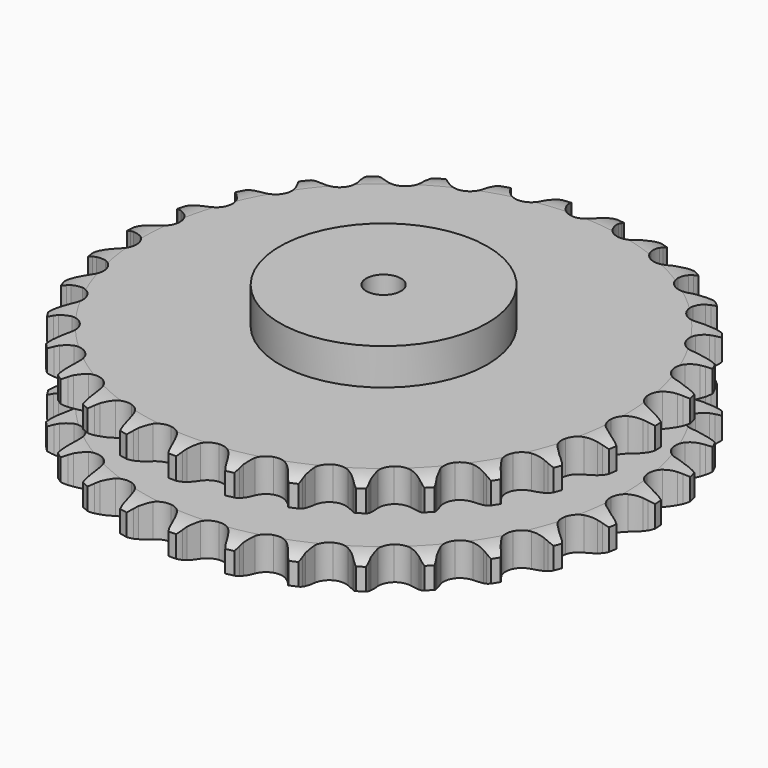
from build123d import *

# Parameters (mm, degrees)
PAD_DEPTH         = 88.4
SKETCH001_R       = 90
PAD001_DEPTH      = 120
SKETCH002_R       = 15
POCKET_DEPTH      = 0.001
POCKET_DEPTH_BACK = 120.001


with BuildPart() as part:
    # Sprocket → Pad (new body)
    with BuildSketch(Plane.XY):
        with BuildLine():
            ThreePointArc((-23.664794, 232.714912), (-20.081342, 228.628802), (-17.565251, 223.811467))
            Line((-17.565251, 223.811467), (-16.202509, 220.213041))
            ThreePointArc((-16.202509, 220.213041), (-14.045708, 215.543225), (-11.252684, 211.223734))
            ThreePointArc((-11.252684, 211.223734), (-6.288643, 207.088088), (0, 205.605441))
            ThreePointArc((0, 205.605441), (6.288643, 207.088088), (11.252684, 211.223734))
            ThreePointArc((11.252684, 211.223734), (14.045708, 215.543225), (16.202509, 220.213041))
            Line((16.202509, 220.213041), (17.565251, 223.811467))
            ThreePointArc((17.565251, 223.811467), (20.081342, 228.628802), (23.664794, 232.714912))
            ThreePointArc((23.664794, 232.714912), (26.352364, 227.991101), (27.847228, 222.765893))
            Line((27.847228, 222.765893), (28.457717, 218.966808))
            ThreePointArc((28.457717, 218.966808), (29.630341, 213.958422), (31.496685, 209.165121))
            ThreePointArc((31.496685, 209.165121), (35.526612, 204.114877), (41.388071, 201.396685))
            ThreePointArc((41.388071, 201.396685), (47.84644, 201.583088), (53.541366, 204.634823))
            Line((53.541366, 204.634823), (60.199402, 212.443726))
            ThreePointArc((60.199402, 212.443726), (61.186059, 214.096157), (62.258607, 215.694174))
            ThreePointArc((62.258607, 215.694174), (65.692915, 219.906412), (70.025541, 223.187536))
            ThreePointArc((70.025541, 223.187536), (71.707201, 218.019418), (72.119638, 212.600256))
            Line((72.119638, 212.600256), (71.95288, 208.756049))
            ThreePointArc((71.95288, 208.756049), (72.09332, 203.614137), (72.956575, 198.543262))
            ThreePointArc((72.956575, 198.543262), (75.887403, 192.785179), (81.081709, 188.942726))
            ThreePointArc((81.081709, 188.942726), (87.445397, 187.825253), (93.638058, 189.668139))
            Line((93.638058, 189.668139), (101.731724, 195.97694))
            ThreePointArc((101.731724, 195.97694), (103.030816, 197.396933), (104.403088, 198.746337))
            ThreePointArc((104.403088, 198.746337), (108.615013, 202.181029), (113.519435, 204.522836))
            ThreePointArc((113.519435, 204.522836), (114.126336, 199.121994), (113.439461, 193.73074))
            Line((113.439461, 193.73074), (112.502284, 189.998792))
            ThreePointArc((112.502284, 189.998792), (111.60479, 184.933865), (111.429614, 179.793019))
            ThreePointArc((111.429614, 179.793019), (113.141354, 173.562833), (117.455853, 168.753429))
            ThreePointArc((117.455853, 168.753429), (123.46433, 166.37783), (129.901197, 166.936418))
            Line((129.901197, 166.936418), (139.099138, 171.486835))
            ThreePointArc((139.099138, 171.486835), (140.65748, 172.616255), (142.273294, 173.6618))
            ThreePointArc((142.273294, 173.6618), (147.090399, 176.17833), (152.36583, 177.484948))
            ThreePointArc((152.36583, 177.484948), (151.873126, 172.072493), (150.11506, 166.929865))
            Line((150.11506, 166.929865), (148.445831, 163.462962))
            ThreePointArc((148.445831, 163.462962), (146.547147, 158.682379), (145.340712, 153.682029))
            ThreePointArc((145.340712, 153.682029), (145.763286, 147.234805), (149.02134, 141.655347))
            ThreePointArc((149.02134, 141.655347), (154.428619, 138.118879), (160.846166, 137.370301))
            Line((160.846166, 137.370301), (170.771816, 139.976039))
            ThreePointArc((170.771816, 139.976039), (172.52561, 140.768647), (174.318814, 141.46753))
            ThreePointArc((174.318814, 141.46753), (179.543887, 142.96287), (184.97435, 143.180804))
            ThreePointArc((184.97435, 143.180804), (183.402213, 137.978323), (180.644931, 133.294861))
            Line((180.644931, 133.294861), (178.311989, 130.234939))
            ThreePointArc((178.311989, 130.234939), (175.489846, 125.934417), (173.301544, 121.279279))
            ThreePointArc((173.301544, 121.279279), (172.417651, 114.878966), (174.485877, 108.757878))
            ThreePointArc((174.485877, 108.757878), (179.070582, 104.205325), (185.206074, 102.180228))
            Line((185.206074, 102.180228), (195.453077, 102.734607))
            ThreePointArc((195.453077, 102.734607), (197.330521, 103.157955), (199.227702, 103.481562))
            ThreePointArc((199.227702, 103.481562), (204.646827, 103.894493), (210.009998, 103.014822))
            ThreePointArc((210.009998, 103.014822), (207.422791, 98.235305), (203.779177, 94.20275))
            Line((203.779177, 94.20275), (200.878032, 91.675083))
            ThreePointArc((200.878032, 91.675083), (197.24797, 88.030686), (194.167391, 83.91134))
            ThreePointArc((194.167391, 83.91134), (192.013217, 77.819969), (192.80694, 71.40785))
            ThreePointArc((192.80694, 71.40785), (196.381375, 66.025593), (201.983623, 62.806884))
            Line((201.983623, 62.806884), (212.132465, 61.287209))
            ThreePointArc((212.132465, 61.287209), (214.056697, 61.323964), (215.980185, 61.259046))
            ThreePointArc((215.980185, 61.259046), (221.371502, 60.572663), (226.447812, 58.631401))
            ThreePointArc((226.447812, 58.631401), (222.951456, 54.470522), (218.570679, 51.253968))
            Line((218.570679, 51.253968), (215.220106, 49.362038))
            ThreePointArc((215.220106, 49.362038), (210.93074, 46.522968), (207.084002, 43.108062))
            ThreePointArc((207.084002, 43.108062), (203.74774, 37.575013), (203.234465, 31.134375))
            ThreePointArc((203.234465, 31.134375), (205.652291, 25.142765), (210.491939, 20.862219))
            Line((210.491939, 20.862219), (220.127126, 17.330705))
            ThreePointArc((220.127126, 17.330705), (222.019367, 16.979362), (223.890413, 16.528579))
            ThreePointArc((223.890413, 16.528579), (229.033202, 14.770981), (233.614826, 11.847603))
            ThreePointArc((233.614826, 11.847603), (229.352462, 8.475709), (224.413872, 6.206842))
            Line((224.413872, 6.206842), (220.751043, 5.028105))
            ThreePointArc((220.751043, 5.028105), (215.97798, 3.110595), (211.522569, 0.539934))
            ThreePointArc((211.522569, 0.539934), (207.140806, -4.208268), (205.341548, -10.413745))
            ThreePointArc((205.341548, -10.413745), (206.503777, -16.769411), (210.382691, -21.936547))
            Line((210.382691, -21.936547), (219.109756, -27.33532))
            ThreePointArc((219.109756, -27.33532), (220.892538, -28.060376), (222.634542, -28.878571))
            ThreePointArc((222.634542, -28.878571), (227.318255, -31.635426), (231.217622, -35.421237))
            ThreePointArc((231.217622, -35.421237), (226.363751, -37.866101), (221.069535, -39.094393))
            Line((221.069535, -39.094393), (217.244406, -39.511678))
            ThreePointArc((217.244406, -39.511678), (212.183056, -40.429127), (207.301378, -42.050298))
            ThreePointArc((207.301378, -42.050298), (202.053504, -45.819262), (199.041923, -51.535524))
            ThreePointArc((199.041923, -51.535524), (198.900975, -57.995045), (201.66035, -63.837229))
            Line((201.66035, -63.837229), (209.122007, -70.882234))
            ThreePointArc((209.122007, -70.882234), (210.722343, -71.95132), (212.263986, -73.103429))
            ThreePointArc((212.263986, -73.103429), (216.296873, -76.746676), (219.354341, -81.239927))
            ThreePointArc((219.354341, -81.239927), (214.107682, -82.657667), (208.674585, -82.795099))
            Line((208.674585, -82.795099), (204.843758, -82.43385))
            ThreePointArc((204.843758, -82.43385), (199.701333, -82.313675), (194.593244, -82.918987))
            ThreePointArc((194.593244, -82.918987), (188.694107, -85.554411), (184.593498, -90.547434))
            ThreePointArc((184.593498, -90.547434), (183.155144, -96.846355), (184.682011, -103.124408))
            Line((184.682011, -103.124408), (190.572778, -111.527221))
            ThreePointArc((190.572778, -111.527221), (191.92515, -112.896568), (193.203317, -114.335424))
            ThreePointArc((193.203317, -114.335424), (196.420271, -118.715907), (198.510668, -123.732645))
            ThreePointArc((198.510668, -123.732645), (193.086019, -124.06522), (187.736473, -123.106164))
            Line((187.736473, -123.106164), (184.056782, -121.981169))
            ThreePointArc((184.056782, -121.981169), (179.043814, -120.828292), (173.918439, -120.392962))
            ThreePointArc((173.918439, -120.392962), (167.609551, -121.786951), (162.587794, -125.85232))
            ThreePointArc((162.587794, -125.85232), (159.91092, -131.732764), (160.142769, -138.189661))
            Line((160.142769, -138.189661), (164.221477, -147.606271))
            ThreePointArc((164.221477, -147.606271), (165.270519, -149.219817), (166.232883, -150.886513))
            ThreePointArc((166.232883, -150.886513), (168.5022, -155.824895), (169.539944, -161.159734))
            ThreePointArc((169.539944, -161.159734), (164.159391, -160.393527), (159.112408, -158.377247))
            Line((159.112408, -158.377247), (155.7345, -156.534565))
            ThreePointArc((155.7345, -156.534565), (151.05622, -154.396185), (146.123393, -152.938036))
            ThreePointArc((146.123393, -152.938036), (139.663041, -153.03352), (133.925726, -156.004798))
            ThreePointArc((133.925726, -156.004798), (130.119923, -161.226018), (129.047263, -167.597413))
            Line((129.047263, -167.597413), (131.14693, -177.642302))
            ThreePointArc((131.14693, -177.642302), (131.849693, -179.433989), (132.456854, -181.26029))
            ThreePointArc((132.456854, -181.26029), (133.685629, -186.554394), (133.628236, -191.988925))
            ThreePointArc((133.628236, -191.988925), (128.512059, -190.155305), (123.974262, -187.164348))
            Line((123.974262, -187.164348), (121.03643, -184.679418))
            ThreePointArc((121.03643, -184.679418), (116.884367, -181.64308), (112.346039, -179.221808))
            ThreePointArc((112.346039, -179.221808), (105.998709, -178.014878), (99.780724, -179.770421))
            ThreePointArc((99.780724, -179.770421), (95.001802, -184.11866), (92.668547, -190.143707))
            Line((92.668547, -190.143707), (92.703212, -200.405637))
            ThreePointArc((92.703212, -200.405637), (93.030926, -202.302113), (93.258026, -204.21325))
            ThreePointArc((93.258026, -204.21325), (93.395953, -209.646334), (92.245771, -214.958067))
            ThreePointArc((92.245771, -214.958067), (87.603429, -212.132102), (83.760596, -208.288919))
            Line((83.760596, -208.288919), (81.383113, -205.263474))
            ThreePointArc((81.383113, -205.263474), (77.927254, -201.453485), (73.969224, -198.168218))
            ThreePointArc((73.969224, -198.168218), (67.994778, -195.708287), (61.550687, -196.176222))
            ThreePointArc((61.550687, -196.176222), (55.994296, -199.473462), (52.49597, -204.905495))
            Line((52.49597, -204.905495), (50.464214, -214.964341))
            ThreePointArc((50.464214, -214.964341), (50.403461, -216.887965), (50.241204, -218.805696))
            ThreePointArc((50.241204, -218.805696), (49.282636, -224.155328), (47.086754, -229.1268))
            ThreePointArc((47.086754, -229.1268), (43.108303, -225.424186), (40.11776, -220.886116))
            Line((40.11776, -220.886116), (38.397963, -217.444019))
            ThreePointArc((38.397963, -217.444019), (35.77979, -213.016361), (32.564101, -209.001598))
            ThreePointArc((32.564101, -209.001598), (27.207132, -205.389375), (20.800757, -204.550546))
            ThreePointArc((20.800757, -204.550546), (14.694377, -206.661797), (10.174201, -211.278429))
            Line((10.174201, -211.278429), (6.159205, -220.72238))
            ThreePointArc((6.159205, -220.72238), (5.712473, -222.594397), (5.167501, -224.44021))
            ThreePointArc((5.167501, -224.44021), (3.151681, -229.487377), (0, -233.915055))
            ThreePointArc((0, -233.915055), (-3.151681, -229.487377), (-5.167501, -224.44021))
            Line((-5.167501, -224.44021), (-6.159205, -220.72238))
            ThreePointArc((-6.159205, -220.72238), (-7.832503, -215.858323), (-10.174201, -211.278429))
            ThreePointArc((-10.174201, -211.278429), (-14.694377, -206.661797), (-20.800757, -204.550546))
            ThreePointArc((-20.800757, -204.550546), (-27.207132, -205.389375), (-32.564101, -209.001598))
            Line((-32.564101, -209.001598), (-38.397963, -217.444019))
            ThreePointArc((-38.397963, -217.444019), (-39.212384, -219.187789), (-40.11776, -220.886116))
            ThreePointArc((-40.11776, -220.886116), (-43.108303, -225.424186), (-47.086754, -229.1268))
            ThreePointArc((-47.086754, -229.1268), (-49.282636, -224.155328), (-50.241204, -218.805696))
            Line((-50.241204, -218.805696), (-50.464214, -214.964341))
            ThreePointArc((-50.464214, -214.964341), (-51.124132, -209.863019), (-52.49597, -204.905495))
            ThreePointArc((-52.49597, -204.905495), (-55.994296, -199.473462), (-61.550687, -196.176222))
            ThreePointArc((-61.550687, -196.176222), (-67.994778, -195.708287), (-73.969224, -198.168218))
            Line((-73.969224, -198.168218), (-81.383113, -205.263474))
            ThreePointArc((-81.383113, -205.263474), (-82.531882, -206.807608), (-83.760596, -208.288919))
            ThreePointArc((-83.760596, -208.288919), (-87.603429, -212.132102), (-92.245771, -214.958067))
            ThreePointArc((-92.245771, -214.958067), (-93.395953, -209.646334), (-93.258026, -204.21325))
            Line((-93.258026, -204.21325), (-92.703212, -200.405637))
            ThreePointArc((-92.703212, -200.405637), (-92.322733, -195.275898), (-92.668547, -190.143707))
            ThreePointArc((-92.668547, -190.143707), (-95.001802, -184.11866), (-99.780724, -179.770421))
            ThreePointArc((-99.780724, -179.770421), (-105.998709, -178.014878), (-112.346039, -179.221808))
            Line((-112.346039, -179.221808), (-121.03643, -184.679418))
            ThreePointArc((-121.03643, -184.679418), (-122.472515, -185.960698), (-123.974262, -187.164348))
            ThreePointArc((-123.974262, -187.164348), (-128.512059, -190.155305), (-133.628236, -191.988925))
            ThreePointArc((-133.628236, -191.988925), (-133.685629, -186.554394), (-132.456854, -181.26029))
            Line((-132.456854, -181.26029), (-131.14693, -177.642302))
            ThreePointArc((-131.14693, -177.642302), (-129.741631, -172.69416), (-129.047263, -167.597413))
            ThreePointArc((-129.047263, -167.597413), (-130.119923, -161.226018), (-133.925726, -156.004798))
            ThreePointArc((-133.925726, -156.004798), (-139.663041, -153.03352), (-146.123393, -152.938036))
            Line((-146.123393, -152.938036), (-155.7345, -156.534565))
            ThreePointArc((-155.7345, -156.534565), (-157.399109, -157.500535), (-159.112408, -158.377247))
            ThreePointArc((-159.112408, -158.377247), (-164.159391, -160.393527), (-169.539944, -161.159734))
            ThreePointArc((-169.539944, -161.159734), (-168.5022, -155.824895), (-166.232883, -150.886513))
            Line((-166.232883, -150.886513), (-164.221477, -147.606271))
            ThreePointArc((-164.221477, -147.606271), (-161.848891, -143.042302), (-160.142769, -138.189661))
            ThreePointArc((-160.142769, -138.189661), (-159.91092, -131.732764), (-162.587794, -125.85232))
            ThreePointArc((-162.587794, -125.85232), (-167.609551, -121.786951), (-173.918439, -120.392962))
            Line((-173.918439, -120.392962), (-184.056782, -121.981169))
            ThreePointArc((-184.056782, -121.981169), (-185.881764, -122.592283), (-187.736473, -123.106164))
            ThreePointArc((-187.736473, -123.106164), (-193.086019, -124.06522), (-198.510668, -123.732645))
            ThreePointArc((-198.510668, -123.732645), (-196.420271, -118.715907), (-193.203317, -114.335424))
            Line((-193.203317, -114.335424), (-190.572778, -111.527221))
            ThreePointArc((-190.572778, -111.527221), (-187.330038, -107.534275), (-184.682011, -103.124408))
            ThreePointArc((-184.682011, -103.124408), (-183.155144, -96.846355), (-184.593498, -90.547434))
            ThreePointArc((-184.593498, -90.547434), (-188.694107, -85.554411), (-194.593244, -82.918987))
            Line((-194.593244, -82.918987), (-204.843758, -82.43385))
            ThreePointArc((-204.843758, -82.43385), (-206.754399, -82.665087), (-208.674585, -82.795099))
            ThreePointArc((-208.674585, -82.795099), (-214.107682, -82.657667), (-219.354341, -81.239927))
            ThreePointArc((-219.354341, -81.239927), (-216.296873, -76.746676), (-212.263986, -73.103429))
            Line((-212.263986, -73.103429), (-209.122007, -70.882234))
            ThreePointArc((-209.122007, -70.882234), (-205.141872, -67.623783), (-201.66035, -63.837229))
            ThreePointArc((-201.66035, -63.837229), (-198.900975, -57.995045), (-199.041923, -51.535524))
            ThreePointArc((-199.041923, -51.535524), (-202.053504, -45.819262), (-207.301378, -42.050298))
            Line((-207.301378, -42.050298), (-217.244406, -39.511678))
            ThreePointArc((-217.244406, -39.511678), (-219.162484, -39.353574), (-221.069535, -39.094393))
            ThreePointArc((-221.069535, -39.094393), (-226.363751, -37.866101), (-231.217622, -35.421237))
            ThreePointArc((-231.217622, -35.421237), (-227.318255, -31.635426), (-222.634542, -28.878571))
            Line((-222.634542, -28.878571), (-219.109756, -27.33532))
            ThreePointArc((-219.109756, -27.33532), (-214.555173, -24.944765), (-210.382691, -21.936547))
            ThreePointArc((-210.382691, -21.936547), (-206.503777, -16.769411), (-205.341548, -10.413745))
            ThreePointArc((-205.341548, -10.413745), (-207.140806, -4.208268), (-211.522569, 0.539934))
            Line((-211.522569, 0.539934), (-220.751043, 5.028105))
            ThreePointArc((-220.751043, 5.028105), (-222.598031, 5.56908), (-224.413872, 6.206842))
            ThreePointArc((-224.413872, 6.206842), (-229.352462, 8.475709), (-233.614826, 11.847603))
            ThreePointArc((-233.614826, 11.847603), (-229.033202, 14.770981), (-223.890413, 16.528579))
            Line((-223.890413, 16.528579), (-220.127126, 17.330705))
            ThreePointArc((-220.127126, 17.330705), (-215.18456, 18.755494), (-210.491939, 20.862219))
            ThreePointArc((-210.491939, 20.862219), (-205.652291, 25.142765), (-203.234465, 31.134375))
            ThreePointArc((-203.234465, 31.134375), (-203.74774, 37.575013), (-207.084002, 43.108062))
            Line((-207.084002, 43.108062), (-215.220106, 49.362038))
            ThreePointArc((-215.220106, 49.362038), (-216.920389, 50.263735), (-218.570679, 51.253968))
            ThreePointArc((-218.570679, 51.253968), (-222.951456, 54.470522), (-226.447812, 58.631401))
            ThreePointArc((-226.447812, 58.631401), (-221.371502, 60.572663), (-215.980185, 61.259046))
            Line((-215.980185, 61.259046), (-212.132465, 61.287209))
            ThreePointArc((-212.132465, 61.287209), (-207.004266, 61.687902), (-201.983623, 62.806884))
            ThreePointArc((-201.983623, 62.806884), (-196.381375, 66.025593), (-192.80694, 71.40785))
            ThreePointArc((-192.80694, 71.40785), (-192.013217, 77.819969), (-194.167391, 83.91134))
            Line((-194.167391, 83.91134), (-200.878032, 91.675083))
            ThreePointArc((-200.878032, 91.675083), (-202.362, 92.900587), (-203.779177, 94.20275))
            ThreePointArc((-203.779177, 94.20275), (-207.422791, 98.235305), (-210.009998, 103.014822))
            ThreePointArc((-210.009998, 103.014822), (-204.646827, 103.894493), (-199.227702, 103.481562))
            Line((-199.227702, 103.481562), (-195.453077, 102.734607))
            ThreePointArc((-195.453077, 102.734607), (-190.349194, 102.094799), (-185.206074, 102.180228))
            ThreePointArc((-185.206074, 102.180228), (-179.070582, 104.205325), (-174.485877, 108.757878))
            ThreePointArc((-174.485877, 108.757878), (-172.417651, 114.878966), (-173.301544, 121.279279))
            Line((-173.301544, 121.279279), (-178.311989, 130.234939))
            ThreePointArc((-178.311989, 130.234939), (-179.518888, 131.734077), (-180.644931, 133.294861))
            ThreePointArc((-180.644931, 133.294861), (-183.402213, 137.978323), (-184.97435, 143.180804))
            ThreePointArc((-184.97435, 143.180804), (-179.543887, 142.96287), (-174.318814, 141.46753))
            Line((-174.318814, 141.46753), (-170.771816, 139.976039))
            ThreePointArc((-170.771816, 139.976039), (-165.901202, 138.321924), (-160.846166, 137.370301))
            ThreePointArc((-160.846166, 137.370301), (-154.428619, 138.118879), (-149.02134, 141.655347))
            ThreePointArc((-149.02134, 141.655347), (-145.763286, 147.234805), (-145.340712, 153.682029))
            Line((-145.340712, 153.682029), (-148.445831, 163.462962))
            ThreePointArc((-148.445831, 163.462962), (-149.326251, 165.174359), (-150.11506, 166.929865))
            ThreePointArc((-150.11506, 166.929865), (-151.873126, 172.072493), (-152.36583, 177.484948))
            ThreePointArc((-152.36583, 177.484948), (-147.090399, 176.17833), (-142.273294, 173.6618))
            Line((-142.273294, 173.6618), (-139.099138, 171.486835))
            ThreePointArc((-139.099138, 171.486835), (-134.661196, 168.886132), (-129.901197, 166.936418))
            ThreePointArc((-129.901197, 166.936418), (-123.46433, 166.37783), (-117.455853, 168.753429))
            ThreePointArc((-117.455853, 168.753429), (-113.141354, 173.562833), (-111.429614, 179.793019))
            Line((-111.429614, 179.793019), (-112.502284, 189.998792))
            ThreePointArc((-112.502284, 189.998792), (-113.020179, 191.852384), (-113.439461, 193.73074))
            ThreePointArc((-113.439461, 193.73074), (-114.126336, 199.121994), (-113.519435, 204.522836))
            ThreePointArc((-113.519435, 204.522836), (-108.615013, 202.181029), (-104.403088, 198.746337))
            Line((-104.403088, 198.746337), (-101.731724, 195.97694))
            ThreePointArc((-101.731724, 195.97694), (-97.908145, 192.536123), (-93.638058, 189.668139))
            ThreePointArc((-93.638058, 189.668139), (-87.445397, 187.825253), (-81.081709, 188.942726))
            ThreePointArc((-81.081709, 188.942726), (-75.887403, 192.785179), (-72.956575, 198.543262))
            Line((-72.956575, 198.543262), (-71.95288, 208.756049))
            ThreePointArc((-71.95288, 208.756049), (-72.087049, 210.675949), (-72.119638, 212.600256))
            ThreePointArc((-72.119638, 212.600256), (-71.707201, 218.019418), (-70.025541, 223.187536))
            ThreePointArc((-70.025541, 223.187536), (-65.692915, 219.906412), (-62.258607, 215.694174))
            Line((-62.258607, 215.694174), (-60.199402, 212.443726))
            ThreePointArc((-60.199402, 212.443726), (-57.146723, 208.303662), (-53.541366, 204.634823))
            ThreePointArc((-53.541366, 204.634823), (-47.84644, 201.583088), (-41.388071, 201.396685))
            ThreePointArc((-41.388071, 201.396685), (-35.526612, 204.114877), (-31.496685, 209.165121))
            Line((-31.496685, 209.165121), (-28.457717, 218.966808))
            ThreePointArc((-28.457717, 218.966808), (-28.202666, 220.874416), (-27.847228, 222.765893))
            ThreePointArc((-27.847228, 222.765893), (-26.352364, 227.991101), (-23.664794, 232.714912))
        make_face()
    extrude(amount=PAD_DEPTH)

    # Sketch → Groove (revolve, cut)
    with BuildSketch(Plane.XZ):
        with BuildLine():
            ThreePointArc((208.628451, 0), (219.11654, 1.268279), (229, 5))
            Line((229, 5), (229, 23.8))
            ThreePointArc((229, 23.8), (219.11654, 27.531721), (208.628451, 28.8))
            Line((90, 28.8), (208.628451, 28.8))
            Line((90, 59.6), (90, 28.8))
            Line((208.628451, 59.6), (90, 59.6))
            ThreePointArc((208.628451, 59.6), (219.11654, 60.868279), (229, 64.6))
            Line((229, 64.6), (229, 83.4))
            ThreePointArc((229, 83.4), (219.11654, 87.131721), (208.628451, 88.4))
            Line((208.628451, 88.4), (239, 88.4))
            Line((239, 88.4), (239, 0))
            Line((208.628451, 0), (239, 0))
        make_face()
    revolve(axis=Axis((0, 0, 0), (0, 0, 1)), mode=Mode.SUBTRACT)

    # Sketch001 → Pad001 (join)
    with BuildSketch(Plane.XY):
        Circle(SKETCH001_R)
    extrude(amount=PAD001_DEPTH)

    # Sketch002 → Pocket (cut, two sides)
    with BuildSketch(Plane.XY) as pocket_sk:
        Circle(SKETCH002_R)
    extrude(amount=-POCKET_DEPTH, mode=Mode.SUBTRACT)
    extrude(pocket_sk.sketch, amount=POCKET_DEPTH_BACK, mode=Mode.SUBTRACT)


solid = part.part
